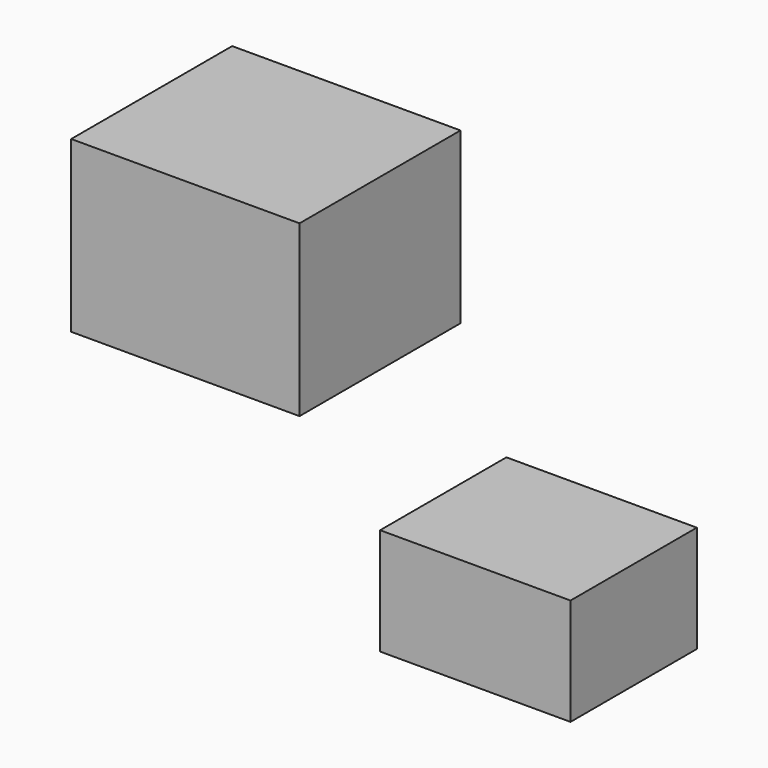
from build123d import *

# Parameters (mm, degrees)
F0_W     = 87.119315
F0_H     = 76.763614
F1_DEPTH = 64.77
F2_W     = 60.231816
F2_H     = 40.771298
F3_DEPTH = 72.644


with BuildPart() as f1:
    # F0 (on Top) → F1 (new body)
    with BuildSketch(Plane.XY):
        with Locations((-69.572857, -8.068041)):
            Rectangle(F0_W, F0_H)
    extrude(amount=F1_DEPTH)


with BuildPart() as f3:
    # F2 (on Right) → F3 (new body)
    with BuildSketch(Plane.YZ):
        with Locations((-10.424731, -52.634265)):
            Rectangle(F2_W, F2_H)
    extrude(amount=F3_DEPTH)


solid = Compound([f1.part, f3.part])
